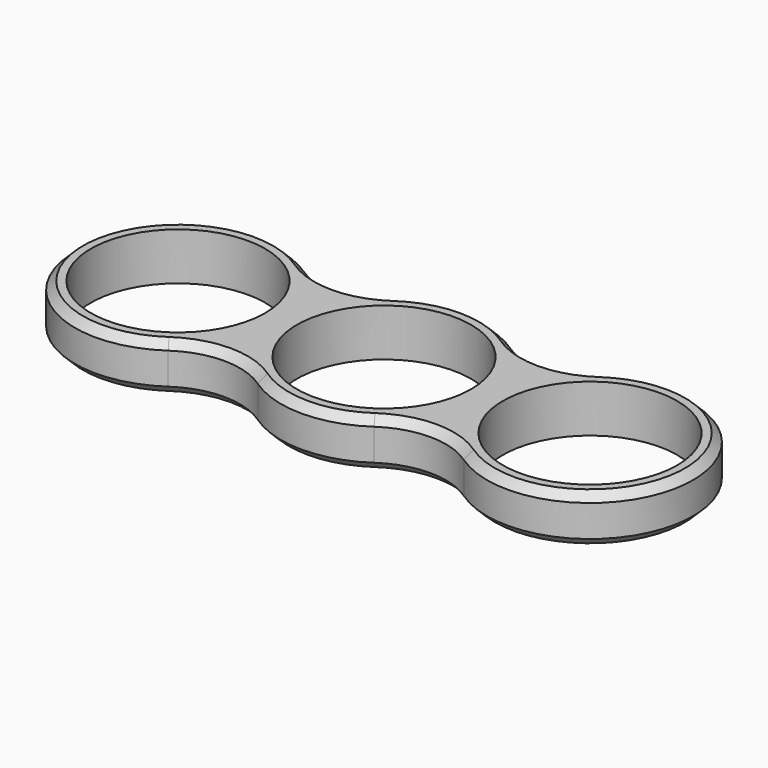
from build123d import *

# Parameters (mm, degrees)
F0_R     = 11
F1_DEPTH = 6
F2_SIZE  = 1


with BuildPart() as f1:
    # F0 (on Top) → F1 (new body)
    with BuildSketch(Plane.XY):
        with BuildLine():
            ThreePointArc((-7.347826, 10.724246), (-13, 8.973666), (-18.652174, 10.724246))
            ThreePointArc((-18.652174, 10.724246), (-39, 0), (-18.652174, -10.724246))
            ThreePointArc((-18.652174, -10.724246), (-13, -8.973666), (-7.347826, -10.724246))
            ThreePointArc((-7.347826, -10.724246), (0, -13), (7.347826, -10.724246))
            ThreePointArc((7.347826, -10.724246), (13, -8.973666), (18.652174, -10.724246))
            ThreePointArc((18.652174, -10.724246), (39, 0), (18.652174, 10.724246))
            ThreePointArc((18.652174, 10.724246), (13, 8.973666), (7.347826, 10.724246))
            ThreePointArc((7.347826, 10.724246), (0, 13), (-7.347826, 10.724246))
        make_face()
        with Locations((-26, 0)):
            Circle(F0_R, mode=Mode.SUBTRACT)
        Circle(F0_R, mode=Mode.SUBTRACT)
        with Locations((26, 0)):
            Circle(F0_R, mode=Mode.SUBTRACT)
    extrude(amount=F1_DEPTH)

    # F2
    f2_edges = [f1.edges().sort_by_distance(p)[0] for p in [
        (39, 0, 6),
        (39, 0, 0),
    ]]
    chamfer(f2_edges, length=F2_SIZE)


solid = f1.part
